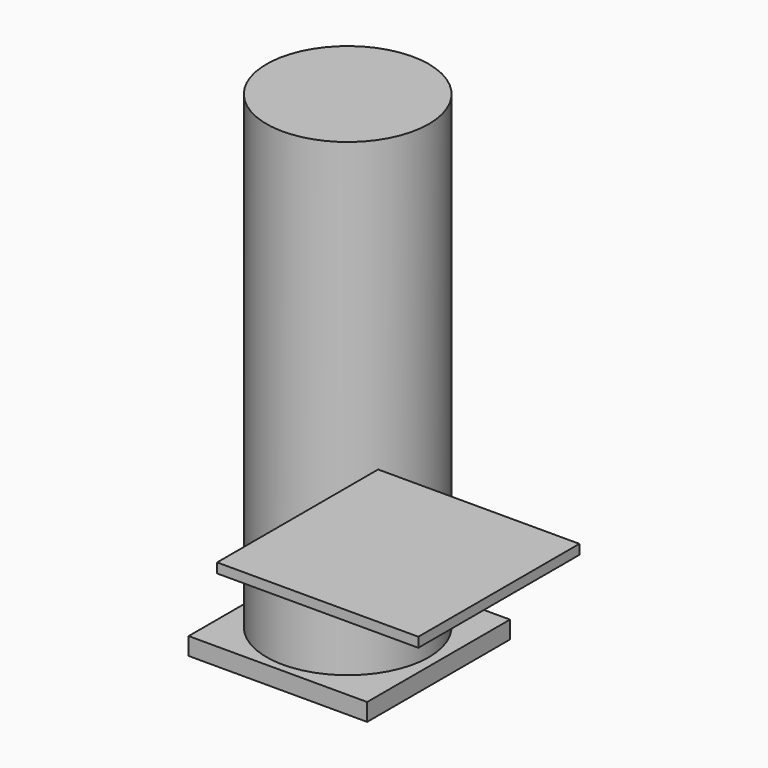
from build123d import *

# Parameters (mm, degrees)
F0_R     = 25
F1_DEPTH = 75
F2_W     = 55
F2_H     = 55
F3_DEPTH = 5.4
F5_W     = 62
F5_H     = 62
F6_DEPTH = 3


with BuildPart() as f1:
    # F0 (on Top) → F1 (new body, symmetric)
    with BuildSketch(Plane.XY):
        Circle(F0_R)
    extrude(amount=F1_DEPTH, both=True)


with BuildPart() as f3:
    # F2 (on Top) → F3 (new body)
    with BuildSketch(Plane.XY):
        Rectangle(F2_W, F2_H)
    extrude(amount=F3_DEPTH)


with BuildPart() as f3_1:
    # F4: moved
    add(f3.part.moved(Location((0.5, 0, -75))))


with BuildPart() as f6:
    # F5 (on Top) → F6 (new body)
    with BuildSketch(Plane.XY):
        with Locations((72.494961, -71.155846)):
            Rectangle(F5_W, F5_H)
        with Locations((72.494961, -71.155846)):
            Rectangle(F5_W, F5_H)
    extrude(amount=F6_DEPTH)


solid = Compound([f1.part, f3_1.part, f6.part])
